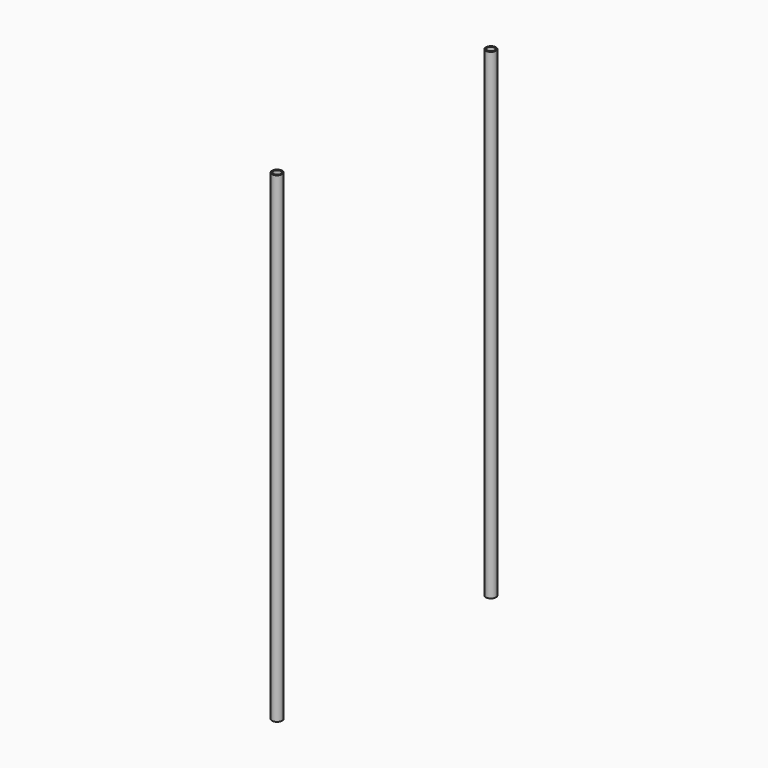
from build123d import *

# Parameters (mm, degrees)
F0_R     = 4.7625
F0_R_2   = 3.5179
F1_DEPTH = 457.2


with BuildPart() as f1:
    # F0 (on Top) → F1 (new body)
    with BuildSketch(Plane.XY):
        with Locations((0, -127)):
            Circle(F0_R)
        with Locations((0, -127)):
            Circle(F0_R_2, mode=Mode.SUBTRACT)
    extrude(amount=-F1_DEPTH)


with BuildPart() as f2_1:
    # F2: instance of F1
    add(f1.part.mirror(Plane.XZ))


solid = Compound([f1.part, f2_1.part])
